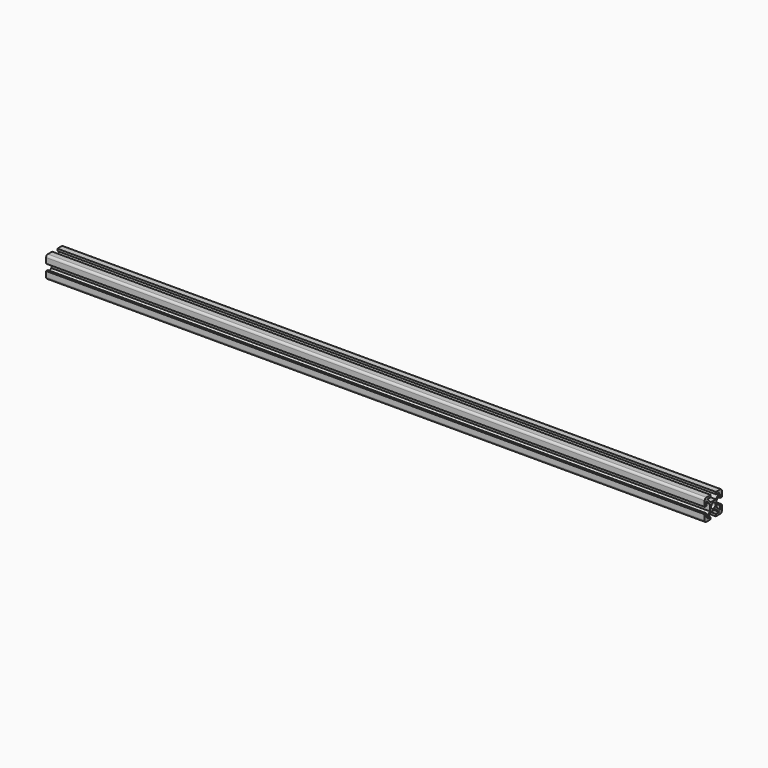
from build123d import *

# Parameters (mm, degrees)
SKETCH_R  = 2.5
PAD_DEPTH = 610


with BuildPart() as part:
    # Sketch → Pad (new body)
    with BuildSketch(Plane.YZ):
        with BuildLine():
            ThreePointArc((-8, 10), (-9.414214, 9.414214), (-10, 8))
            Line((-10, 8), (-10, 3))
            Line((-8, 3), (-10, 3))
            Line((-8, 3), (-8, 7))
            Line((-4, 3), (-8, 7))
            Line((-4, -3), (-4, 3))
            Line((-8, -7), (-4, -3))
            Line((-8, -7), (-8, -3))
            Line((-10, -3), (-8, -3))
            Line((-10, -3), (-10, -8))
            ThreePointArc((-10, -8), (-9.414214, -9.414214), (-8, -10))
            Line((-8, -10), (-3, -10))
            Line((-3, -10), (-3, -8))
            Line((-3, -8), (-7, -8))
            Line((-3, -4), (-7, -8))
            Line((3, -4), (-3, -4))
            Line((3, -4), (7, -8))
            Line((3, -8), (7, -8))
            Line((3, -10), (3, -8))
            Line((3, -10), (8, -10))
            ThreePointArc((8, -10), (9.414214, -9.414214), (10, -8))
            Line((10, -8), (10, -3))
            Line((10, -3), (8, -3))
            Line((8, -7), (8, -3))
            Line((4, -3), (8, -7))
            Line((4, 3), (4, -3))
            Line((4, 3), (8, 7))
            Line((8, 7), (8, 3))
            Line((8, 3), (10, 3))
            Line((10, 3), (10, 8))
            ThreePointArc((10, 8), (9.414214, 9.414214), (8, 10))
            Line((3, 10), (8, 10))
            Line((3, 10), (3, 8))
            Line((3, 8), (7, 8))
            Line((7, 8), (3, 4))
            Line((-3, 4), (3, 4))
            Line((-3, 4), (-7, 8))
            Line((-7, 8), (-3, 8))
            Line((-3, 8), (-3, 10))
            Line((-8, 10), (-3, 10))
        make_face()
        Circle(SKETCH_R, mode=Mode.SUBTRACT)
    extrude(amount=PAD_DEPTH)


solid = part.part
